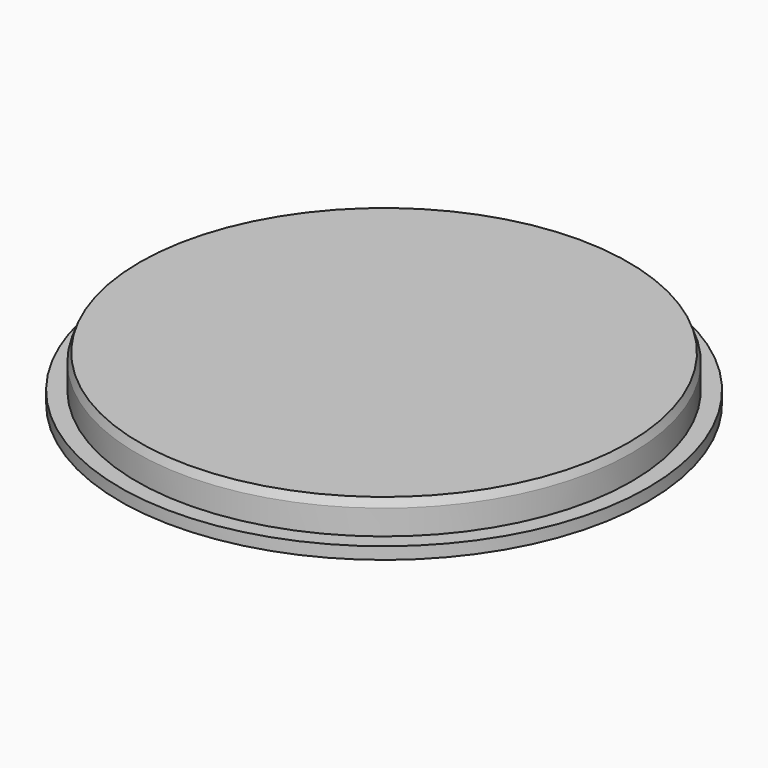
from build123d import *

# Parameters (mm, degrees)
F1_START = 10
F0_R     = 79.5
F1_DEPTH = 5
F0_R_2   = 82
F2_DEPTH = 15
F0_R_3   = 87.5
F3_DEPTH = 4
F4_SIZE2 = 2.7474774195
F4_SIZE  = 1
F5_SIZE2 = 5.4949548389
F5_SIZE  = 2


with BuildPart() as f1:
    # F0 (on Top) → F1 (new body)
    with BuildSketch(Plane.XY.offset(F1_START)):
        Circle(F0_R)
    extrude(amount=F1_DEPTH)

    # F0 (on Top) → F2 (join)
    with BuildSketch(Plane.XY):
        Circle(F0_R_2)
        Circle(F0_R, mode=Mode.SUBTRACT)
    extrude(amount=F2_DEPTH)

    # F0 (on Top) → F3 (join)
    with BuildSketch(Plane.XY):
        Circle(F0_R_3)
        Circle(F0_R_2, mode=Mode.SUBTRACT)
    extrude(amount=F3_DEPTH)

    # F4
    f4_edges = [f1.edges().sort_by_distance(p)[0] for p in [
        (-82, 0, 15),
    ]]
    f4_side = f1.faces().sort_by_distance((0, 0, 15))[0]
    chamfer(f4_edges, length=F4_SIZE, length2=F4_SIZE2, reference=f4_side)

    # F5
    f5_edges = [f1.edges().sort_by_distance(p)[0] for p in [
        (-79.5, 0, 0),
    ]]
    f5_side = f1.faces().sort_by_distance((-81.974874, 0, 0))[0]
    chamfer(f5_edges, length=F5_SIZE, length2=F5_SIZE2, reference=f5_side)


solid = f1.part
